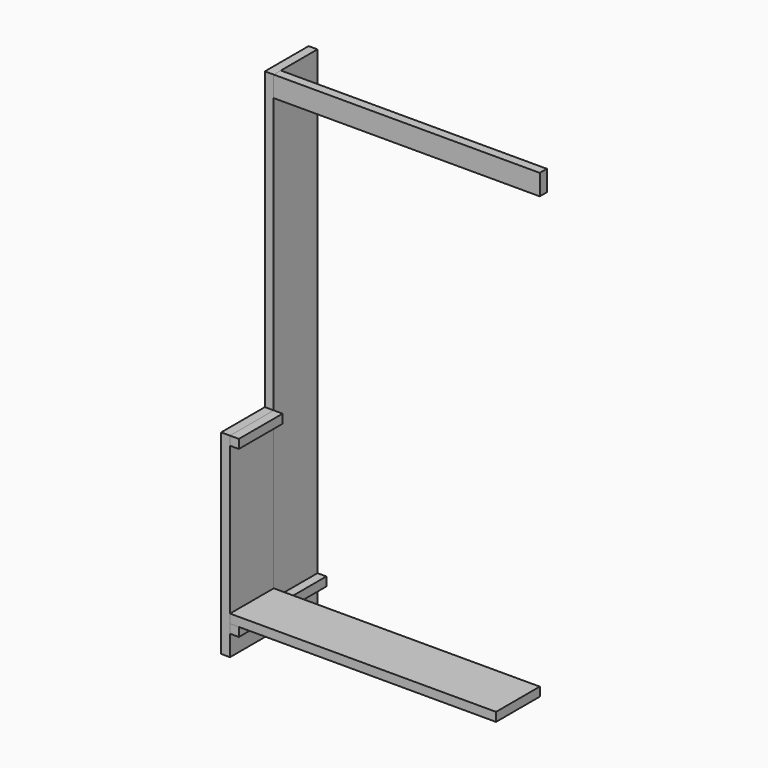
from build123d import *

# Parameters (mm, degrees)
F0_W      = 38.1
F0_H      = 234.95
F1_DEPTH  = 2108.2
F2_W      = 38.1
F2_H      = 234.95
F3_DEPTH  = 838.2
F4_W      = 234.95
F4_H      = 38.1
F5_DEPTH  = 1143
F6_W      = 38.1
F6_H      = 88.9
F7_DEPTH  = 1143
F8_W      = 38.1
F8_H      = 38.1
F9_DEPTH  = 469.9
F10_W     = 38.1
F10_H     = 38.1
F11_DEPTH = 234.95


with BuildPart() as f1:
    # F0 (on Top) → F1 (new body)
    with BuildSketch(Plane.XY):
        with Locations((19.05, -117.475)):
            Rectangle(F0_W, F0_H)
    extrude(amount=F1_DEPTH)


with BuildPart() as f3:
    # F2 (on Top) → F3 (new body)
    with BuildSketch(Plane.XY):
        with Locations((19.05, -352.425)):
            Rectangle(F2_W, F2_H)
    extrude(amount=F3_DEPTH)


with BuildPart() as f5:
    # F4 (on face) → F5 (new body)
    with BuildSketch(Plane.YZ.offset(38.1)):
        with Locations((-352.425, 146.05)):
            Rectangle(F4_W, F4_H)
    extrude(amount=F5_DEPTH)


with BuildPart() as f7:
    # F6 (on face) → F7 (new body)
    with BuildSketch(Plane.YZ.offset(38.1)):
        with Locations((-215.9, 2063.75)):
            Rectangle(F6_W, F6_H)
    extrude(amount=F7_DEPTH)


with BuildPart() as f9:
    # F8 (on face) → F9 (new body, through all)
    with BuildSketch(Plane.XZ.offset(469.9)):
        with Locations((57.15, 107.95)):
            Rectangle(F8_W, F8_H)
    extrude(amount=-F9_DEPTH)


with BuildPart() as f11:
    # F10 (on face) → F11 (new body)
    with BuildSketch(Plane.XZ.offset(469.9)):
        with Locations((57.15, 819.15)):
            Rectangle(F10_W, F10_H)
    extrude(amount=-F11_DEPTH)


solid = Compound([f1.part, f3.part, f5.part, f7.part, f9.part, f11.part])
